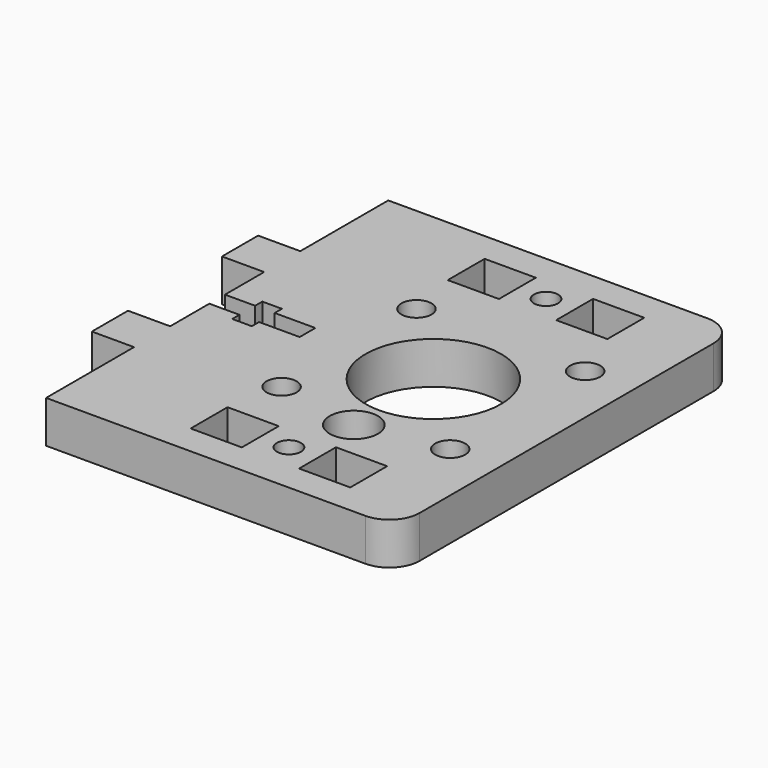
from build123d import *

# Parameters (mm, degrees)
F0_W      = 65
F0_H      = 71
F0_W_2    = 8.5
F0_H_2    = 7.65
F2_DEPTH  = 7
F1_R      = 4
F1_R_2    = 11.25
F1_R_3    = 2.5
F3_DEPTH  = 25
F4_R      = 2
F5_DEPTH  = 7.001
F6_W      = 7
F6_H      = 18.25
F6_H_2    = 19.5
F7_DEPTH  = 7.001
F8_W      = 30
F8_H      = 3.25
F9_W      = 3.25
F9_H      = 6.25
F10_DEPTH = 7.001
F11_R     = 5


with BuildPart() as f2:
    # F0 (on Top) → F2 (new body)
    with BuildSketch(Plane.XY):
        Rectangle(F0_W, F0_H)
        with Locations((-1.25, -26.675)):
            Rectangle(F0_W_2, F0_H_2, mode=Mode.SUBTRACT)
        with Locations((16.75, -26.675)):
            Rectangle(F0_W_2, F0_H_2, mode=Mode.SUBTRACT)
        with Locations((-1.25, 26.675)):
            Rectangle(F0_W_2, F0_H_2, mode=Mode.SUBTRACT)
        with Locations((16.75, 26.675)):
            Rectangle(F0_W_2, F0_H_2, mode=Mode.SUBTRACT)
    extrude(amount=F2_DEPTH)

    # F1 (on face) → F3 (cut)
    with BuildSketch(Plane.XY):
        with Locations((10.39, -16.5)):
            Circle(F1_R)
        with Locations((10.39, 0)):
            Circle(F1_R_2)
        with Locations((-3.61, 14)):
            Circle(F1_R_3)
        with Locations((24.39, 14)):
            Circle(F1_R_3)
        with Locations((24.39, -14)):
            Circle(F1_R_3)
        with Locations((-3.61, -14)):
            Circle(F1_R_3)
    extrude(amount=F3_DEPTH, mode=Mode.SUBTRACT)

    # F4 (on face) → F5 (cut, through all)
    with BuildSketch(Plane.XY.offset(7)):
        with Locations((7.75, 26.675)):
            Circle(F4_R)
        with Locations((7.75, -26.675)):
            Circle(F4_R)
    extrude(amount=-F5_DEPTH, mode=Mode.SUBTRACT)

    # F6 (on face) → F7 (cut, through all)
    with BuildSketch(Plane.XY.offset(7)):
        with Locations((-29, 26.375)):
            Rectangle(F6_W, F6_H)
        with Locations((-29, -26.375)):
            Rectangle(F6_W, F6_H)
        with Locations((-29, 0)):
            Rectangle(F6_W, F6_H_2)
    extrude(amount=-F7_DEPTH, mode=Mode.SUBTRACT)

    # F8 (on face) + F9 (on face) → F10 (cut, through all)
    with BuildSketch(Plane.XY.offset(7)):
        with Locations((-25.5, 0)):
            Rectangle(F8_W, F8_H)
    with BuildSketch(Plane.XY.offset(7)):
        with Locations((-18.875, 0)):
            Rectangle(F9_W, F9_H)
    extrude(amount=-F10_DEPTH, mode=Mode.SUBTRACT)

    # F11
    f11_edges = [f2.edges().sort_by_distance(p)[0] for p in [
        (32.5, -35.5, 3.5),
        (32.5, 35.5, 3.5),
    ]]
    fillet(f11_edges, radius=F11_R)


solid = f2.part
